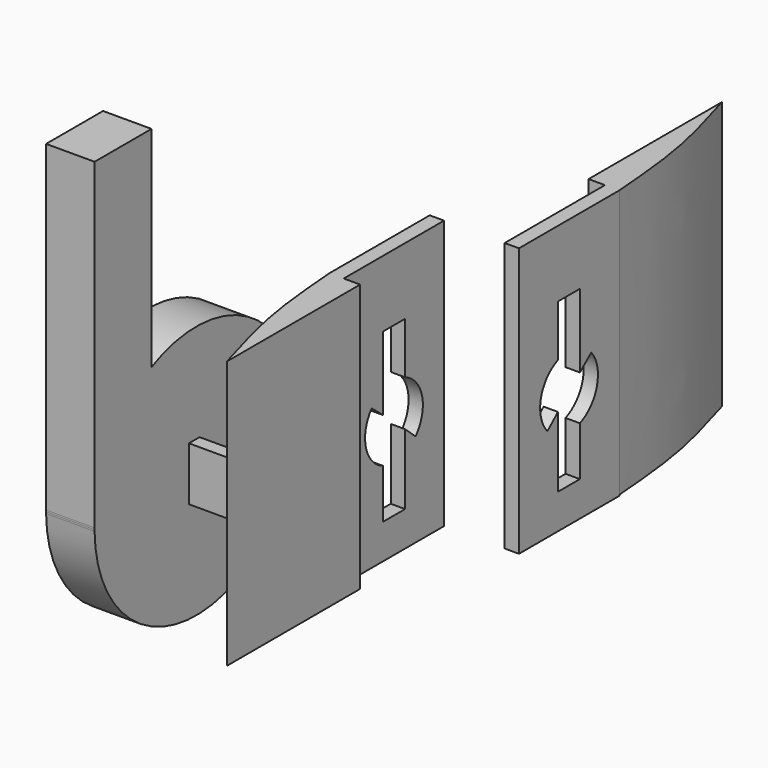
from build123d import *

# Parameters (mm, degrees)
F1_DEPTH  = 3
F3_DEPTH  = 56.134
F6_ANGLE  = 180
F8_W      = 10.6099818368
F8_H      = 11.2386159599
F9_DEPTH  = 2.794
F11_R     = 7.5984162218
F12_DEPTH = 12.7
F13_DEPTH = 10.16
F14_W     = 7.7362461016
F14_H     = 45.0753038749
F16_DEPTH = 7.62


with BuildPart() as f1:
    # F0 (on Right) → F1 (new body)
    with BuildSketch(Plane.YZ):
        Polygon((-13.1614236161, -24.4362447411), (-13.1614236161, -24.6083959937), (13.1052471697, -24.6083959937), (13.1052471697, 31.7355468869), (-13.1614236161, 31.7355468869), align=None)
        with BuildLine():
            ThreePointArc((2.9062139802, 6.9863685069), (7.3761994306, 1.6873371251), (5.6545644181, -5.0280538834))
            Line((5.6545644181, -5.0280538834), (2.9062139802, -2.5842132848))
            Line((2.9062139802, -2.5842132848), (2.9062139802, -17.3122975975))
            Line((2.9062139802, -17.3122975975), (-2.8452479746, -17.3122975975))
            Line((-2.8452479746, -17.3122975975), (-2.8452479746, -7.0114184425))
            ThreePointArc((-2.8452479746, -7.0114184425), (-7.3357623806, -1.8552668024), (-5.8364262679, 4.8157608986))
            Line((-5.8364262679, 4.8157608986), (-2.8452479746, 2.3476753263))
            Line((-2.8452479746, 2.3476753263), (-2.8452479746, 17.7812483162))
            Line((-2.8452479746, 17.7812483162), (2.9062139802, 17.7812483162))
            Line((2.9062139802, 17.7812483162), (2.9062139802, 6.9863685069))
        make_face(mode=Mode.SUBTRACT)
    extrude(amount=F1_DEPTH)

    # F2 (on face) → F3 (join)
    with BuildSketch(Plane.XY.offset(31.7355468869)):
        with BuildLine():
            Line((6.4345789142, -13.1614236161), (0, -13.1614236161))
            add(Edge.make_bspline(
                [(6.4345789142, -48.0803698301), (4.787874313, -42.5082593093), (1.4631647297, -31.2581242008), (0.4907730941, -19.2313988951), (0, -13.1614236161)],
                knots=[0, 0, 0, 0, 0.4952927647, 1, 1, 1, 1], degree=3))
            Line((6.4345789142, -48.0803698301), (6.4345789142, -13.1614236161))
        make_face()
    extrude(amount=-F3_DEPTH)


with BuildPart() as f4_1:
    # F4: copy of F1
    add(f1.part.moved(Location((0, 63.5, 2.54))))


with BuildPart() as f6_1:
    # F6: copy of F1
    add(f1.part.rotate(Axis((3, 13.1052471697, 3.5635754466), (0, 0, 1)), F6_ANGLE))


with BuildPart() as f6_1_1:
    # F7: moved
    add(f6_1.part.moved(Location((12.7, 0, 0))))


with BuildPart() as f9:
    # F8 (on Front) → F9 (new body)
    with BuildSketch(Plane.XZ):
        with Locations((-1.941607683, -38.6647041887)):
            Rectangle(F8_W, F8_H)
    extrude(amount=F9_DEPTH)

    # F11 (on offset) → F12 (join)
    with BuildSketch(Plane(origin=(-7.2465986013, 0, 0), x_dir=(0, -1, 0), z_dir=(-1, 0, 0))):
        with Locations((0.8520749398, -38.9353707433)):
            Circle(F11_R)
    extrude(amount=F12_DEPTH)

    # F11 (on offset) → F13 (join)
    with BuildSketch(Plane(origin=(-7.2465986013, 0, 0), x_dir=(0, -1, 0), z_dir=(-1, 0, 0))):
        with BuildLine():
            ThreePointArc((27.4901241966, -38.6153503164), (23.3719141772, -24.7035429617), (12.5741753727, -15.0129870259))
            ThreePointArc((12.5741753727, -15.0129870259), (-21.8371033338, -52.8956454738), (27.4901241966, -39.2553911702))
            Line((27.4901241966, -39.2553911702), (27.4901241966, -38.6153503164))
        make_face()
        with Locations((0.8520749398, -38.9353707433)):
            Circle(F11_R, mode=Mode.SUBTRACT)
        with BuildLine():
            Line((12.5741753727, 28.9108194411), (12.5741753727, -15.0129870259))
            ThreePointArc((12.5741753727, -15.0129870259), (23.3719141772, -24.7035429617), (27.4901241966, -38.6153503164))
            Line((27.4901241966, -38.6153503164), (27.4901241966, 28.9108194411))
            Line((27.4901241966, 28.9108194411), (12.5741753727, 28.9108194411))
        make_face()
        with BuildLine():
            Line((27.4901241966, -38.6153503164), (27.4901241966, -39.2553911702))
            ThreePointArc((27.4901241966, -39.2553911702), (27.4915658713, -39.0953838432), (27.4920464353, -38.9353707433))
            ThreePointArc((27.4920464353, -38.9353707433), (27.4915658713, -38.7753576433), (27.4901241966, -38.6153503164))
        make_face()
    extrude(amount=F13_DEPTH)


with BuildPart() as f9_1:
    # F15: moved
    add(f9.part.moved(Location((-50.8, 25.4, 0))))


with BuildPart() as f16:
    # F14 (on face) → F16 (new body)
    with BuildSketch(Plane.YZ.offset(3.3633832354)):
        with Locations((-1.1959411204, -35.8694386669)):
            Rectangle(F14_W, F14_H)
    extrude(amount=F16_DEPTH)


with BuildPart() as f16_1:
    # F17: moved
    add(f16.part.moved(Location((-50.8, 25.4, 0))))


solid = Compound([f1.part, f6_1_1.part, f9_1.part, f16_1.part])
